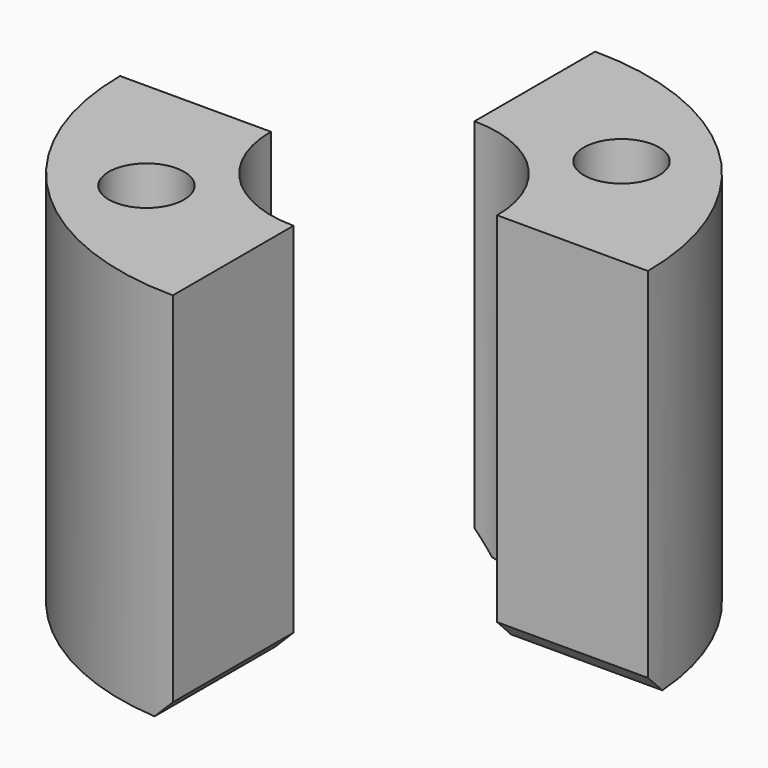
from build123d import *

# Parameters (mm, degrees)
CYLINDER1943_R     = 1
CYLINDER1943_DEPTH = 20
CYLINDER1942_R     = 1
CYLINDER1942_DEPTH = 20
CYLINDER1945_R     = 2
CYLINDER1945_DEPTH = 2
CYLINDER1948_R     = 2
CYLINDER1948_DEPTH = 2
CYLINDER1946_R     = 3
CYLINDER1946_DEPTH = 5
CYLINDER1944_R     = 3
CYLINDER1944_DEPTH = 5
BOX754_W           = 10
BOX754_H           = 20
BOX754_DEPTH       = 10
BOX753_W           = 10
BOX753_H           = 20
BOX753_DEPTH       = 10
TUBE077_R          = 7
TUBE077_R_2        = 1
TUBE077_DEPTH      = 10
CHAMFER097_SIZE    = 0.5


with BuildPart() as obj1:
    # Cylinder1943 → Cylinder1943 (new body)
    with BuildSketch(Plane(origin=(-3.5, -3.5, 0), x_dir=(1, 0, 0), z_dir=(0, 0, 1))):
        Circle(CYLINDER1943_R)
    extrude(amount=CYLINDER1943_DEPTH)


with BuildPart() as compound873:
    # Cylinder1942 → Cylinder1942 (new body)
    with BuildSketch(Plane(origin=(3.5, 3.5, 0), x_dir=(1, 0, 0), z_dir=(0, 0, 1))):
        Circle(CYLINDER1942_R)
    extrude(amount=CYLINDER1942_DEPTH)

    # Compound873: union obj1
    add(obj1.part)


with BuildPart() as obj2:
    # Cylinder1945 → Cylinder1945 (new body)
    with BuildSketch(Plane(origin=(-3.5, -3.5, 0), x_dir=(1, 0, 0), z_dir=(0, 0, 1))):
        Circle(CYLINDER1945_R)
    extrude(amount=CYLINDER1945_DEPTH)


with BuildPart() as compound875:
    # Cylinder1948 → Cylinder1948 (new body)
    with BuildSketch(Plane(origin=(3.5, 3.5, 0), x_dir=(1, 0, 0), z_dir=(0, 0, 1))):
        Circle(CYLINDER1948_R)
    extrude(amount=CYLINDER1948_DEPTH)

    # Compound875: union obj2
    add(obj2.part)


with BuildPart() as obj3:
    # Cylinder1946 → Cylinder1946 (new body)
    with BuildSketch(Plane.XY.offset(5)):
        Circle(CYLINDER1946_R)
    extrude(amount=CYLINDER1946_DEPTH)


with BuildPart() as obj4:
    # Cylinder1944 → Cylinder1944 (new body)
    with BuildSketch(Plane.XY):
        Circle(CYLINDER1944_R)
    extrude(amount=CYLINDER1944_DEPTH)


with BuildPart() as krychle753:
    # Box754 → Box754 (new body)
    with BuildSketch(Plane(origin=(0, 0, 0), x_dir=(0, 1, 0), z_dir=(0, 0, 1))):
        with Locations((5, 10)):
            Rectangle(BOX754_W, BOX754_H)
    extrude(amount=BOX754_DEPTH)


with BuildPart() as compound874:
    # Box753 → Box753 (new body)
    with BuildSketch(Plane(origin=(0, 0, 0), x_dir=(0, -1, 0), z_dir=(0, 0, 1))):
        with Locations((5, 10)):
            Rectangle(BOX753_W, BOX753_H)
    extrude(amount=BOX753_DEPTH)

    # Compound874: union Krychle753
    add(krychle753.part)


with BuildPart() as chamfer097:
    # Tube077 → Tube077 (new body)
    with BuildSketch(Plane.XY):
        Circle(TUBE077_R)
        Circle(TUBE077_R_2, mode=Mode.SUBTRACT)
    extrude(amount=TUBE077_DEPTH)

    # Cut710: cut Compound874
    add(compound874.part, mode=Mode.SUBTRACT)

    # Cut711: cut obj4
    add(obj4.part, mode=Mode.SUBTRACT)

    # Cut712: cut obj3
    add(obj3.part, mode=Mode.SUBTRACT)

    # Cut709: cut Compound875
    add(compound875.part, mode=Mode.SUBTRACT)

    # Cut713: cut Compound873
    add(compound873.part, mode=Mode.SUBTRACT)

    # Chamfer097
    chamfer097_edges = [chamfer097.edges().sort_by_distance(p)[0] for p in [
        (0, 5, 0),
        (5, 0, 0),
        (0, -5, 0),
        (-5, 0, 0),
    ]]
    chamfer(chamfer097_edges, length=CHAMFER097_SIZE)


solid = chamfer097.part
